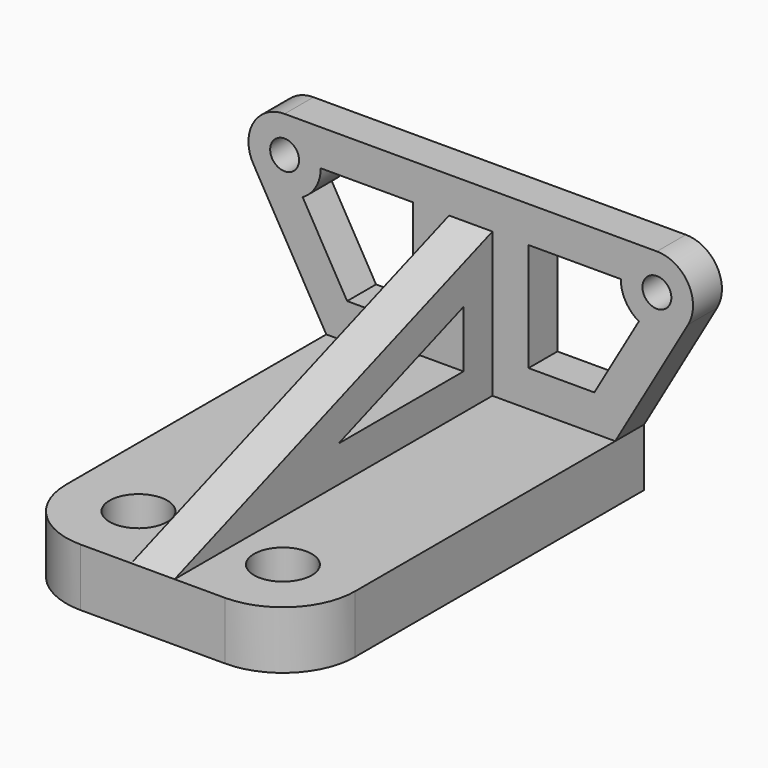
from build123d import *

# Parameters (mm, degrees)
F0_R     = 4
F1_DEPTH = 8
F2_R     = 2
F3_DEPTH = 5
F5_DEPTH = 3


with BuildPart() as f1:
    # F0 (on Top) → F1 (new body)
    with BuildSketch(Plane.XY):
        with BuildLine():
            Line((20, 0), (0, 0))
            Line((0, 0), (0, -60))
            Line((0, -60), (10, -60))
            ThreePointArc((10, -60), (17.0710678119, -57.0710678119), (20, -50))
            Line((20, -50), (20, 0))
        make_face()
        with Locations((10, -50)):
            Circle(F0_R, mode=Mode.SUBTRACT)
        with BuildLine():
            Line((0, -60), (0, 0))
            Line((0, 0), (-20, 0))
            Line((-20, 0), (-20, -50))
            ThreePointArc((-20, -50), (-17.0710678119, -57.0710678119), (-10, -60))
            Line((-10, -60), (0, -60))
        make_face()
        with Locations((-10, -50)):
            Circle(F0_R, mode=Mode.SUBTRACT)
    extrude(amount=F1_DEPTH)

    # F2 (on Front) → F3 (join)
    with BuildSketch(Plane.XZ):
        Polygon((-3, 8), (3, 8), (3, 28), (0, 28), (-3, 28), align=None)
        with BuildLine():
            Line((3, 8), (20, 8))
            Line((20, 8), (30.1036297108, 25.5))
            ThreePointArc((30.1036297108, 25.5), (30.1036297108, 30.5), (25.7735026919, 33))
            Line((25.7735026919, 33), (0, 33))
            Line((0, 33), (-25.7735026919, 33))
            ThreePointArc((-25.7735026919, 33), (-30.1036297108, 30.5), (-30.1036297108, 25.5))
            Line((-30.1036297108, 25.5), (-20, 8))
            Line((-20, 8), (-3, 8))
            Line((-3, 8), (-3, 28))
            Line((-3, 28), (0, 28))
            Line((0, 28), (3, 28))
            Line((3, 28), (3, 8))
        make_face()
        with BuildLine():
            Line((-20.77, 28), (-8, 28))
            Line((-8, 28), (-8, 13))
            Line((-8, 13), (-17.1132486541, 13))
            Line((-17.1132486541, 13), (-23.272627479, 23.6683570679))
            ThreePointArc((-23.272627479, 23.6683570679), (-21.4406315354, 25.4986866055), (-20.77, 28))
        make_face(mode=Mode.SUBTRACT)
        with Locations((-25.77, 28)):
            Circle(F2_R, mode=Mode.SUBTRACT)
        with BuildLine():
            Line((8, 13), (8, 28))
            Line((8, 28), (20.77, 28))
            ThreePointArc((20.77, 28), (21.4406315354, 25.4986866055), (23.272627479, 23.6683570679))
            Line((23.272627479, 23.6683570679), (17.1132486541, 13))
            Line((17.1132486541, 13), (8, 13))
        make_face(mode=Mode.SUBTRACT)
        with Locations((25.77, 28)):
            Circle(F2_R, mode=Mode.SUBTRACT)
    extrude(amount=F3_DEPTH)

    # F4 (on Right) → F5 (join, symmetric)
    with BuildSketch(Plane.YZ):
        Polygon((-50, 8), (-5, 8), (-5, 25.5), (-5, 28.0183628846), (-60, 8), align=None)
        Polygon((-31.6435909019, 13), (-10, 20.8776228509), (-10, 13), align=None, mode=Mode.SUBTRACT)
    extrude(amount=F5_DEPTH, both=True)


solid = f1.part
